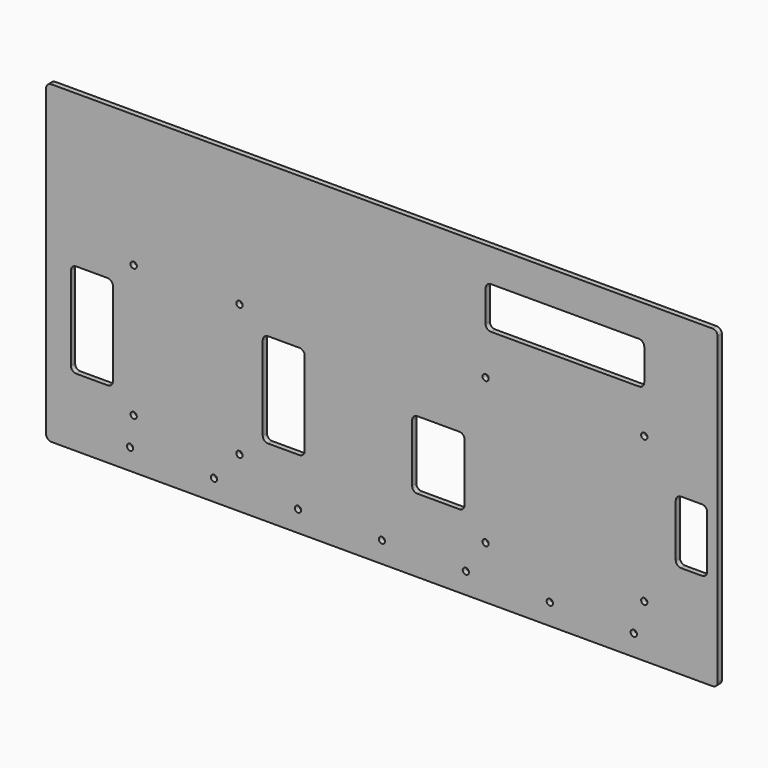
from build123d import *

# Parameters (mm, degrees)
F0_R     = 1.89865
F1_DEPTH = 3.175


with BuildPart() as f1:
    # F0 (on Front) → F1 (new body)
    with BuildSketch(Plane.XZ):
        with BuildLine():
            Line((200.025, 95.25), (-200.025, 95.25))
            ThreePointArc((-200.025, 95.25), (-202.2700640303, 94.3200640303), (-203.2, 92.075))
            Line((-203.2, 92.075), (-203.2, -92.075))
            ThreePointArc((-203.2, -92.075), (-202.2700640303, -94.3200640303), (-200.025, -95.25))
            Line((-200.025, -95.25), (200.025, -95.25))
            ThreePointArc((200.025, -95.25), (202.2700640303, -94.3200640303), (203.2, -92.075))
            Line((203.2, -92.075), (203.2, 92.075))
            ThreePointArc((203.2, 92.075), (202.2700640303, 94.3200640303), (200.025, 95.25))
        make_face()
        with Locations((-152.4, -82.55)):
            Circle(F0_R, mode=Mode.SUBTRACT)
        with Locations((-101.6, -82.55)):
            Circle(F0_R, mode=Mode.SUBTRACT)
        with Locations((-150.2112307024, -64.8801388249)):
            Circle(F0_R, mode=Mode.SUBTRACT)
        with Locations((-50.8, -82.55)):
            Circle(F0_R, mode=Mode.SUBTRACT)
        with Locations((0, -82.55)):
            Circle(F0_R, mode=Mode.SUBTRACT)
        with BuildLine():
            ThreePointArc((-84.3125807024, -64.8801388249), (-86.2112307024, -66.7787888249), (-88.1098807024, -64.8801388249))
            ThreePointArc((-88.1098807024, -64.8801388249), (-86.2112307024, -62.9814888249), (-84.3125807024, -64.8801388249))
        make_face(mode=Mode.SUBTRACT)
        with BuildLine():
            ThreePointArc((-188.1665156039, -0.0463944584), (-187.2365796342, 2.1986695719), (-184.9915156039, 3.1286055416))
            Line((-184.9915156039, 3.1286055416), (-165.9415156039, 3.1286055416))
            ThreePointArc((-165.9415156039, 3.1286055416), (-163.6964515737, 2.1986695719), (-162.7665156039, -0.0463944584))
            Line((-162.7665156039, -0.0463944584), (-162.7665156039, -50.8463944584))
            ThreePointArc((-162.7665156039, -50.8463944584), (-163.6964515737, -53.0914584887), (-165.9415156039, -54.0213944584))
            Line((-165.9415156039, -54.0213944584), (-184.9915156039, -54.0213944584))
            ThreePointArc((-184.9915156039, -54.0213944584), (-187.2365796342, -53.0914584887), (-188.1665156039, -50.8463944584))
            Line((-188.1665156039, -50.8463944584), (-188.1665156039, -0.0463944584))
        make_face(mode=Mode.SUBTRACT)
        with BuildLine():
            ThreePointArc((-72.1112307024, 0.5198611751), (-71.1812947327, 2.7649252054), (-68.9362307024, 3.6948611751))
            Line((-68.9362307024, 3.6948611751), (-49.8862307024, 3.6948611751))
            ThreePointArc((-49.8862307024, 3.6948611751), (-47.6411666721, 2.7649252054), (-46.7112307024, 0.5198611751))
            Line((-46.7112307024, 0.5198611751), (-46.7112307024, -50.2801388249))
            ThreePointArc((-46.7112307024, -50.2801388249), (-47.6411666721, -52.5252028551), (-49.8862307024, -53.4551388249))
            Line((-49.8862307024, -53.4551388249), (-68.9362307024, -53.4551388249))
            ThreePointArc((-68.9362307024, -53.4551388249), (-71.1812947327, -52.5252028551), (-72.1112307024, -50.2801388249))
            Line((-72.1112307024, -50.2801388249), (-72.1112307024, 0.5198611751))
        make_face(mode=Mode.SUBTRACT)
        with Locations((50.8, -82.55)):
            Circle(F0_R, mode=Mode.SUBTRACT)
        with Locations((101.6, -82.55)):
            Circle(F0_R, mode=Mode.SUBTRACT)
        with Locations((62.75, -63.5)):
            Circle(F0_R, mode=Mode.SUBTRACT)
        with Locations((152.4, -82.55)):
            Circle(F0_R, mode=Mode.SUBTRACT)
        with Locations((158.75, -63.5)):
            Circle(F0_R, mode=Mode.SUBTRACT)
        with BuildLine():
            ThreePointArc((18.3, -12.7), (19.2299359697, -10.4549359697), (21.475, -9.525))
            Line((21.475, -9.525), (46.875, -9.525))
            ThreePointArc((46.875, -9.525), (49.1200640303, -10.4549359697), (50.05, -12.7))
            Line((50.05, -12.7), (50.05, -47.625))
            ThreePointArc((50.05, -47.625), (49.1200640303, -49.8700640303), (46.875, -50.8))
            Line((46.875, -50.8), (21.475, -50.8))
            ThreePointArc((21.475, -50.8), (19.2299359697, -49.8700640303), (18.3, -47.625))
            Line((18.3, -47.625), (18.3, -12.7))
        make_face(mode=Mode.SUBTRACT)
        with BuildLine():
            ThreePointArc((196.85, -35.375), (195.9200640303, -37.6200640303), (193.675, -38.55))
            Line((193.675, -38.55), (180.975, -38.55))
            ThreePointArc((180.975, -38.55), (178.7299359697, -37.6200640303), (177.8, -35.375))
            Line((177.8, -35.375), (177.8, -3.625))
            ThreePointArc((177.8, -3.625), (178.7299359697, -1.3799359697), (180.975, -0.45))
            Line((180.975, -0.45), (193.675, -0.45))
            ThreePointArc((193.675, -0.45), (195.9200640303, -1.3799359697), (196.85, -3.625))
            Line((196.85, -3.625), (196.85, -35.375))
        make_face(mode=Mode.SUBTRACT)
        with Locations((-150.2112307024, 15.1198611751)):
            Circle(F0_R, mode=Mode.SUBTRACT)
        with Locations((-86.2112307024, 15.1198611751)):
            Circle(F0_R, mode=Mode.SUBTRACT)
        with Locations((62.75, 24.5)):
            Circle(F0_R, mode=Mode.SUBTRACT)
        with Locations((158.75, 24.5)):
            Circle(F0_R, mode=Mode.SUBTRACT)
        with BuildLine():
            Line((155.575, 49.9), (65.925, 49.9))
            ThreePointArc((65.925, 49.9), (63.6799359697, 50.8299359697), (62.75, 53.075))
            Line((62.75, 53.075), (62.75, 72.125))
            ThreePointArc((62.75, 72.125), (63.6799359697, 74.3700640303), (65.925, 75.3))
            Line((65.925, 75.3), (155.575, 75.3))
            ThreePointArc((155.575, 75.3), (157.8200640303, 74.3700640303), (158.75, 72.125))
            Line((158.75, 72.125), (158.75, 53.075))
            ThreePointArc((158.75, 53.075), (157.8200640303, 50.8299359697), (155.575, 49.9))
        make_face(mode=Mode.SUBTRACT)
    extrude(amount=F1_DEPTH)


solid = f1.part
